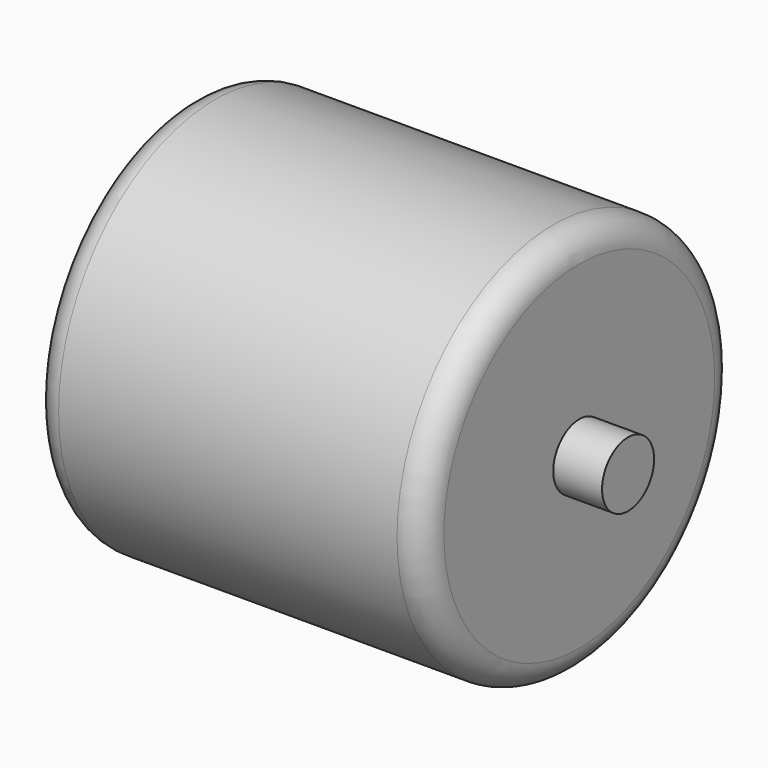
from build123d import *

# Parameters (mm, degrees)
F0_R     = 38.1
F0_R_2   = 6.35
F1_DEPTH = 38.1
F2_R     = 5.08
F3_DEPTH = 47.625


with BuildPart() as f1:
    # F0 (on Right) → F1 (new body, symmetric)
    with BuildSketch(Plane.YZ):
        Circle(F0_R)
        Circle(F0_R_2, mode=Mode.SUBTRACT)
    extrude(amount=F1_DEPTH, both=True)

    # F2
    f2_edges = [f1.edges().sort_by_distance(p)[0] for p in [
        (38.1, -38.1, 0),
        (-38.1, -38.1, 0),
    ]]
    fillet(f2_edges, radius=F2_R)

    # F0 (on Right) → F3 (join, symmetric)
    with BuildSketch(Plane.YZ):
        Circle(F0_R_2)
    extrude(amount=F3_DEPTH, both=True)


solid = f1.part
